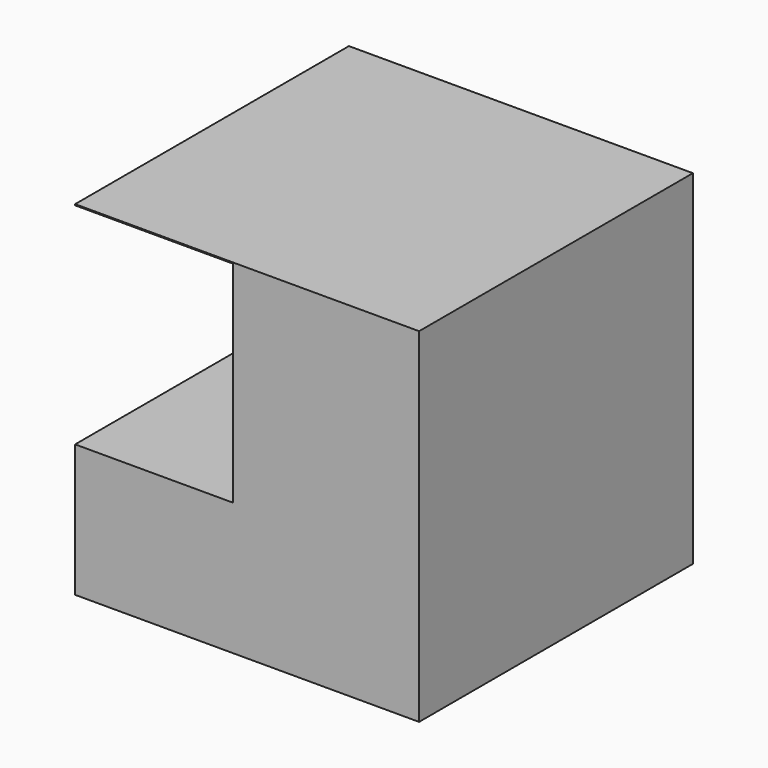
from build123d import *

# Parameters (mm, degrees)
F0_W     = 60.306697
F0_H     = 60.306694
F1_DEPTH = 30
F2_W     = 27.713758
F2_H     = 36.886618
F3_DEPTH = 80.6


with BuildPart() as f1:
    # F0 (on Front) → F1 (new body, symmetric)
    with BuildSketch(Plane.XZ):
        with Locations((9.36803, 22.541823)):
            Rectangle(F0_W, F0_H)
    extrude(amount=F1_DEPTH, both=True)

    # F2 (on Front) → F3 (cut, symmetric)
    with BuildSketch(Plane.XZ):
        with Locations((-6.92844, 34.056693)):
            Rectangle(F2_W, F2_H)
    extrude(amount=F3_DEPTH, both=True, mode=Mode.SUBTRACT)


solid = f1.part
